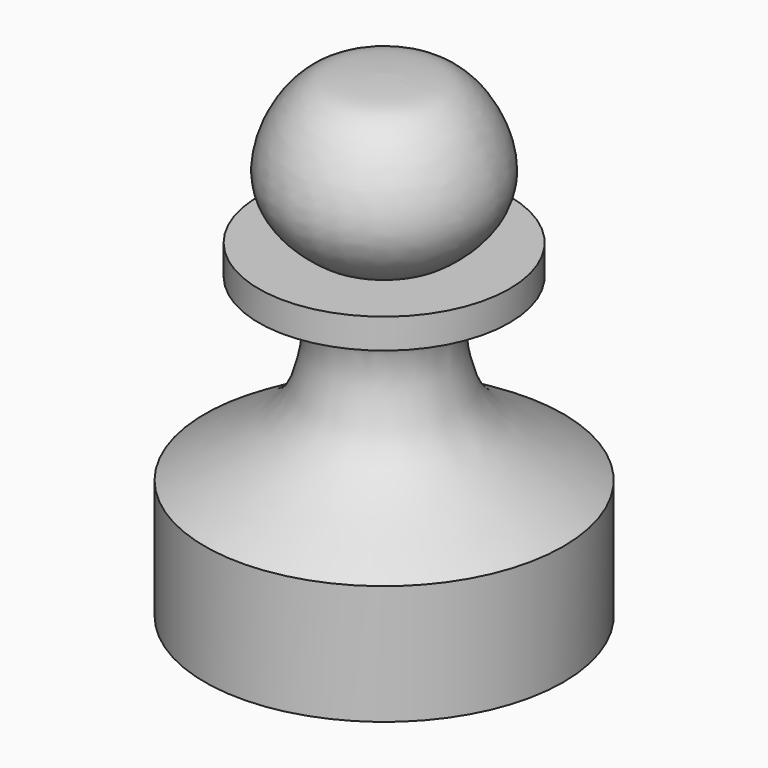
from build123d import *


with BuildPart() as f1:
    # F0 (on Front) → F1 (revolve)
    with BuildSketch(Plane.XZ):
        with BuildLine():
            Line((0, 50.8), (0, 34.925))
            Line((0, 34.925), (6.7313371377, 34.925))
            add(Edge.make_bspline(
                [(6.7313371377, 34.925), (9.1660192998, 36.584243404), (12.1811256362, 40.5329028803), (9.7038379806, 47.230680767), (6.3139233711, 50.4087846074), (4.754697213, 50.6305893646), (0, 50.8)],
                knots=[0, 0, 0, 0, 0.277452726, 0.5363338254, 0.7326009529, 1, 1, 1, 1], degree=3))
        make_face()
        Polygon((0, 34.925), (0, 31.75), (9.525, 31.75), (13.320277445, 31.75), (13.320277445, 34.925), (6.7313371377, 34.925), align=None)
        with BuildLine():
            Line((0, 31.75), (0, 0))
            Line((0, 0), (19.05, 0))
            Line((19.05, 0), (19.05, 12.7))
            add(Edge.make_bspline(
                [(19.05, 12.7), (15.6445959161, 14.8300528587), (9.037378424, 18.1241412945), (7.0251417677, 23.6118438651), (6.2528101904, 29.2835176444), (9.525, 31.75)],
                knots=[0, 0, 0, 0, 0.3900175878, 0.6631477467, 1, 1, 1, 1], degree=3))
            Line((9.525, 31.75), (0, 31.75))
        make_face()
    revolve(axis=Axis((0, 0, 25.4), (0, 0, 1)))


solid = f1.part
